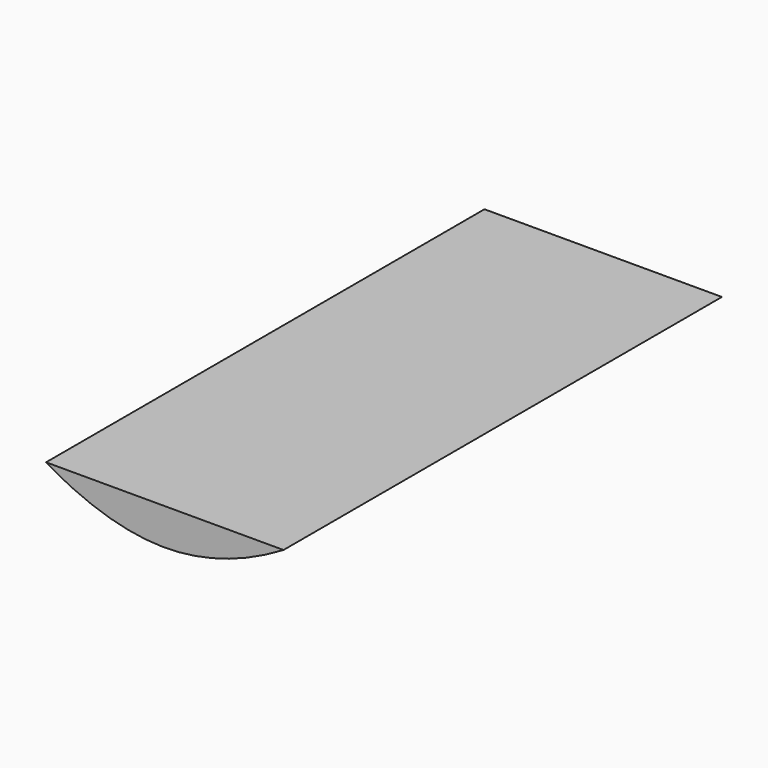
from build123d import *

# Parameters (mm, degrees)
F5_DEPTH = 381


with BuildPart() as f5:
    # F0 (on Front) → F5 (new body, through all)
    with BuildSketch(Plane.XZ):
        with BuildLine():
            add(Edge.make_bspline(
                [(0, 0), (-25.4, -15.24), (-82.55, -35.56), (-139.7, -15.24), (-165.1, 0)],
                knots=[0, 0, 0, 0, 0.5, 1, 1, 1, 1], degree=3))
            Line((0, 0), (-165.1, 0))
        make_face()
    extrude(amount=-F5_DEPTH)


solid = f5.part
